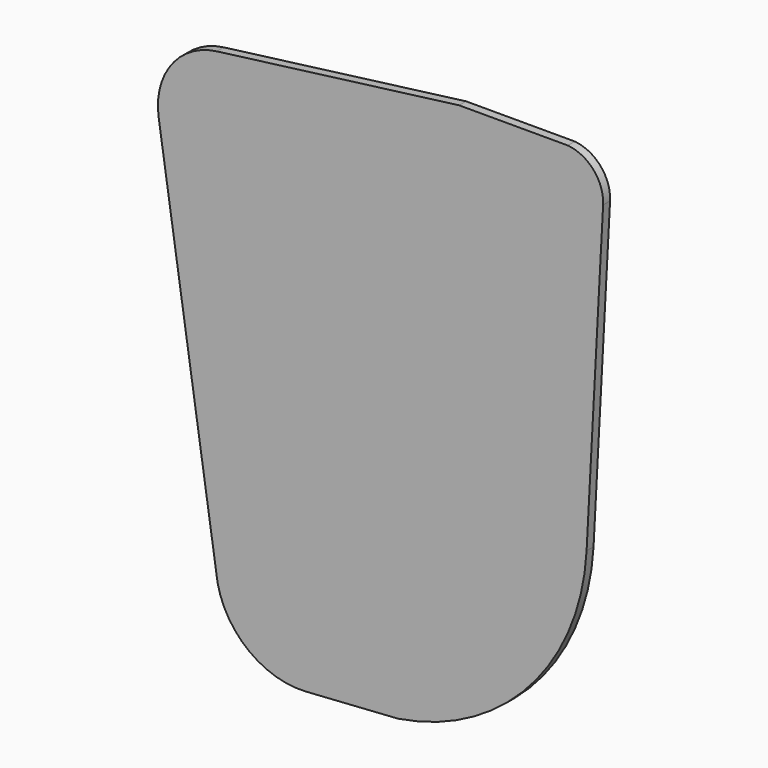
from build123d import *

# Parameters (mm, degrees)
F2_DEPTH      = 2
F2_DEPTH_BACK = 2


with BuildPart() as f2:
    # F1 (on Front) → F2 (new body, two sides)
    with BuildSketch(Plane.XZ) as f2_sk:
        with BuildLine():
            ThreePointArc((38.5, 260.6), (17.636257, 248.435307), (11.8, 225))
            Line((11.8, 225), (38.2, 50))
            ThreePointArc((38.2, 50), (51.665233, 23.944027), (79.5, 14.7))
            Line((79.5, 14.7), (121.9, 17.5))
            ThreePointArc((121.9, 17.5), (182.270724, 50.260117), (208.6, 113.7))
            Line((208.6, 113.7), (216.2, 256.2))
            ThreePointArc((216.2, 256.2), (211.879198, 268.856543), (200, 275))
            Line((200, 275), (150, 275))
            Line((150, 275), (38.5, 260.6))
        make_face()
    extrude(amount=F2_DEPTH)
    extrude(f2_sk.sketch, amount=-F2_DEPTH_BACK)


solid = f2.part
